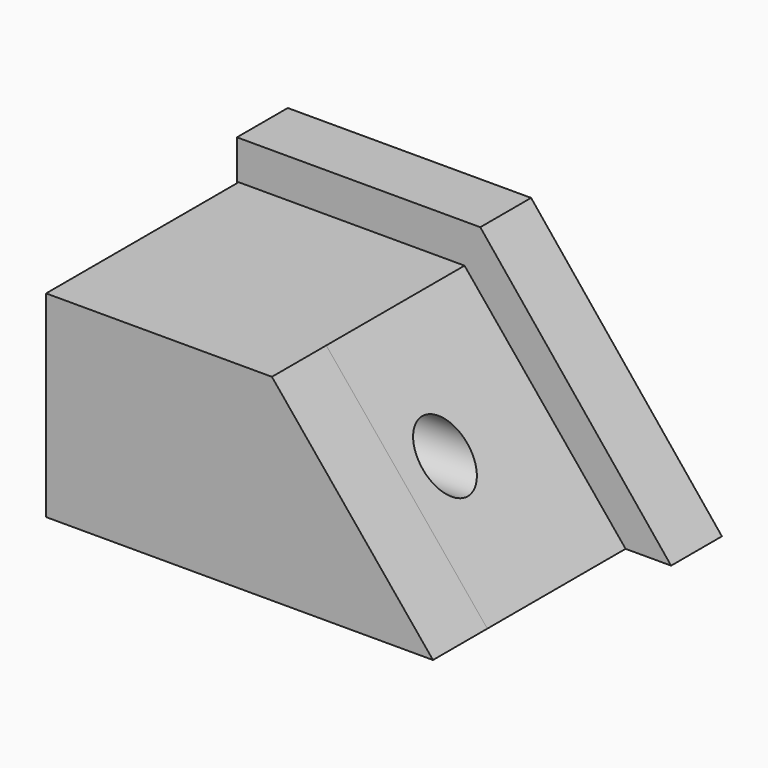
from build123d import *

# Parameters (mm, degrees)
F1_DEPTH = 40.64
F3_DEPTH = 10.922
F4_DEPTH = 11.684
F5_R     = 4.793747
F6_DEPTH = 104.14


with BuildPart() as f1:
    # F0 (on Front) → F1 (new body)
    with BuildSketch(Plane.XZ):
        Polygon((-29.653441, 33.868145), (-29.653441, 0), (36.878649, 0), (9.182032, 33.868145), align=None)
    extrude(amount=F1_DEPTH)

    # F2 (on Front) → F3 (join)
    with BuildSketch(Plane.XZ):
        Polygon((-29.954489, 40.566515), (-29.954489, 34.244459), (-29.954489, 0), (44.705957, 0), (11.891488, 40.566515), align=None)
    extrude(amount=F3_DEPTH)

    # F1_face (on face) → F4 (join)
    with BuildSketch(Plane(origin=(-2.704862, -40.64, 15.450325), x_dir=(1, 0, 0), z_dir=(0, -1, 0))):
        Polygon((-26.948579, 18.41782), (-26.948579, -15.450325), (39.583512, -15.450325), (11.886895, 18.41782), align=None)
    extrude(amount=F4_DEPTH)

    # F5 (on face) → F6 (cut)
    with BuildSketch(Plane(origin=(-29.653441, 0, 0), x_dir=(0, -1, 0), z_dir=(-1, 0, 0))):
        with Locations((31.623, 17.7266)):
            Circle(F5_R)
    extrude(amount=-F6_DEPTH, mode=Mode.SUBTRACT)


solid = f1.part
